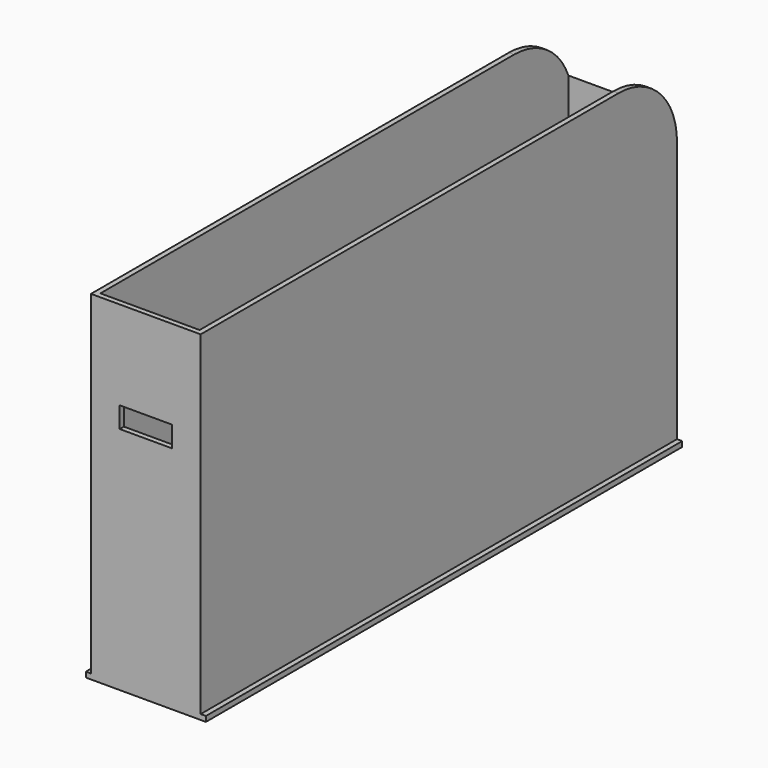
from build123d import *

# Parameters (mm, degrees)
F0_W      = 21
F0_H      = 114
F1_DEPTH  = 65
F2_W      = 19
F2_H      = 112
F3_DEPTH  = 90
F4_W      = 10
F4_H      = 4
F5_DEPTH  = 25
F6_W      = 114
F6_H      = 1
F7_DEPTH  = 1
F8_W      = 114
F8_H      = 1
F9_DEPTH  = 1
F11_DEPTH = 25
F12_W     = 20
F12_H     = 6
F13_DEPTH = 0.5
F15_DEPTH = 25


with BuildPart() as f1:
    # F0 (on Top) → F1 (new body)
    with BuildSketch(Plane.XY):
        Rectangle(F0_W, F0_H)
    extrude(amount=F1_DEPTH)

    # F2 (on face) → F3 (cut)
    with BuildSketch(Plane.XY.offset(65)):
        Rectangle(F2_W, F2_H)
    extrude(amount=-F3_DEPTH, mode=Mode.SUBTRACT)

    # F4 (on face) → F5 (cut)
    with BuildSketch(Plane.XZ.offset(57)):
        with Locations((0, 46)):
            Rectangle(F4_W, F4_H)
    extrude(amount=-F5_DEPTH, mode=Mode.SUBTRACT)

    # F6 (on face) → F7 (join)
    with BuildSketch(Plane.YZ.offset(10.5)):
        with Locations((0, 0.5)):
            Rectangle(F6_W, F6_H)
    extrude(amount=F7_DEPTH)

    # F8 (on face) → F9 (join)
    with BuildSketch(Plane(origin=(-10.5, 0, 0), x_dir=(0, -1, 0), z_dir=(-1, 0, 0))):
        with Locations((0, 0.5)):
            Rectangle(F8_W, F8_H)
    extrude(amount=F9_DEPTH)

    # F10 (on face) → F11 (cut)
    with BuildSketch(Plane.YZ.offset(10.5)):
        with BuildLine():
            ThreePointArc((43, 65), (52.899495, 60.899495), (57, 51))
            Line((57, 51), (57, 65))
            Line((57, 65), (43, 65))
        make_face()
    extrude(amount=-F11_DEPTH, mode=Mode.SUBTRACT)

    # F12 (on face) → F13 (join)
    with BuildSketch(Plane(origin=(0, 57, 0), x_dir=(-1, 0, 0), z_dir=(0, 1, 0))):
        with Locations((0, 48)):
            Rectangle(F12_W, F12_H)
    extrude(amount=F13_DEPTH)

    # F14 (on face) → F15 (cut)
    with BuildSketch(Plane(origin=(-10, 0, 0), x_dir=(0, -1, 0), z_dir=(-1, 0, 0))):
        Polygon((-57.5, 51), (-57.5, 48), (-57, 51), align=None)
    extrude(amount=-F15_DEPTH, mode=Mode.SUBTRACT)


solid = f1.part
